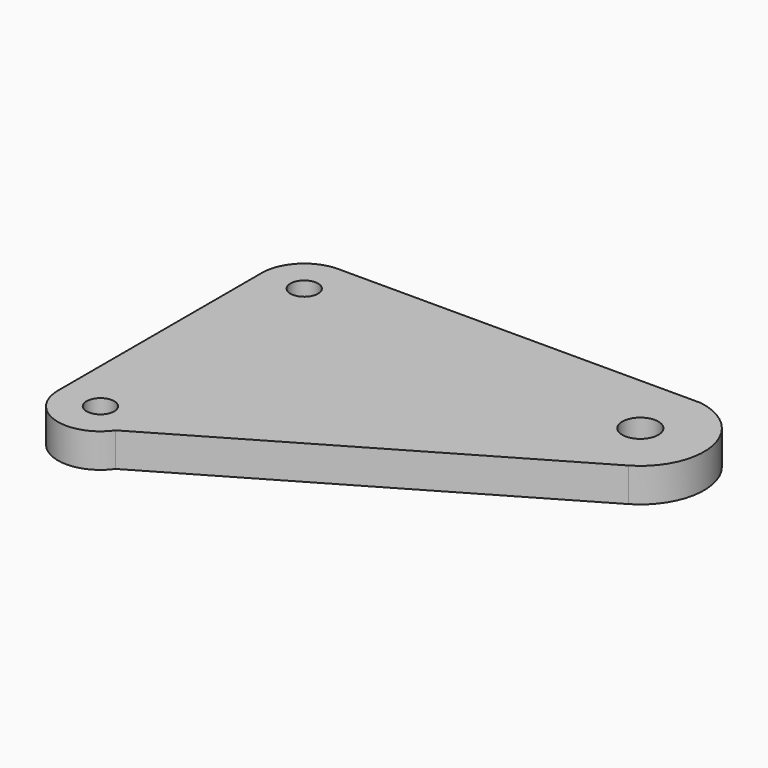
from build123d import *

# Parameters (mm, degrees)
F0_R     = 3.25
F0_R_2   = 4.25
F1_DEPTH = 8


with BuildPart() as f1:
    # F0 (on Top) → F1 (new body)
    with BuildSketch(Plane.XY):
        with BuildLine():
            Line((17.76347, 26.688205), (-62.862323, 26.688205))
            ThreePointArc((-62.862323, 26.688205), (-69.933391, 23.759273), (-72.862323, 16.688205))
            Line((-72.862323, 16.688205), (-72.862323, -43.197609))
            ThreePointArc((-72.862323, -43.197609), (-65.928359, -52.830378), (-54.676185, -49.054309))
            Line((-54.676185, -49.054309), (27.686891, -1.084551))
            ThreePointArc((27.686891, -1.084551), (34.883865, 14.625007), (22.511884, 26.688205))
            Line((22.511884, 26.688205), (17.76347, 26.688205))
        make_face()
        with Locations((-62.862975, -43.311795)):
            Circle(F0_R, mode=Mode.SUBTRACT)
        with Locations((-62.862323, 16.688205)):
            Circle(F0_R, mode=Mode.SUBTRACT)
        with Locations((20.137677, 11.877292)):
            Circle(F0_R_2, mode=Mode.SUBTRACT)
    extrude(amount=F1_DEPTH)


solid = f1.part
